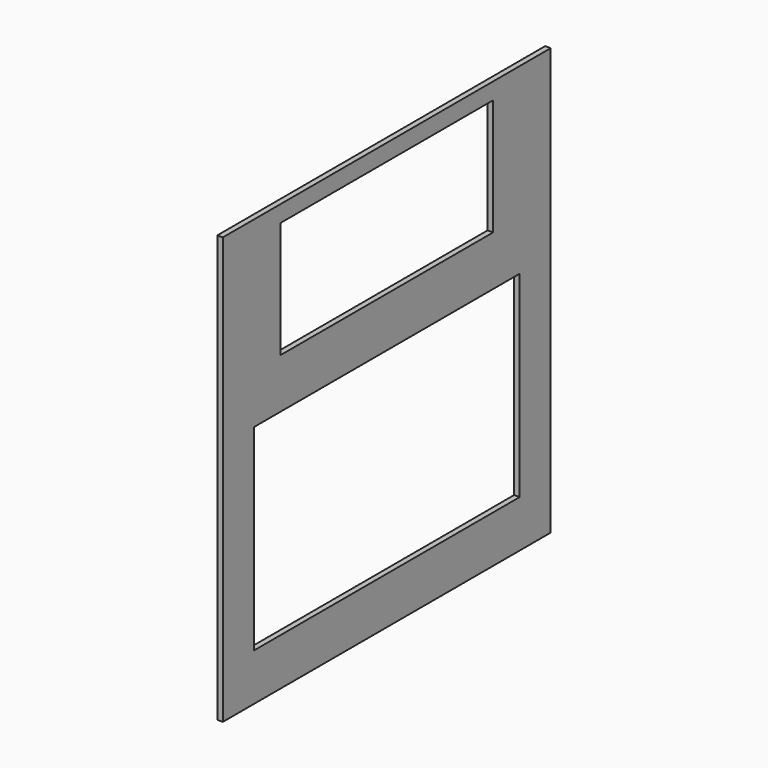
from build123d import *

# Parameters (mm, degrees)
F0_W     = 939.8
F0_H     = 977.9
F1_DEPTH = 6.35
F2_W     = 762
F2_H     = 450.85
F2_W_2   = 609.6
F2_H_2   = 266.7
F3_DEPTH = 12.701


with BuildPart() as f1:
    # F0 (on Right) → F1 (new body, symmetric)
    with BuildSketch(Plane.YZ):
        Rectangle(F0_W, F0_H)
    extrude(amount=F1_DEPTH, both=True)

    # F2 (on face) → F3 (cut, through all)
    with BuildSketch(Plane.YZ.offset(6.35)):
        with Locations((0, -155.575)):
            Rectangle(F2_W, F2_H)
        with Locations((0, 317.5)):
            Rectangle(F2_W_2, F2_H_2)
    extrude(amount=-F3_DEPTH, mode=Mode.SUBTRACT)


solid = f1.part
